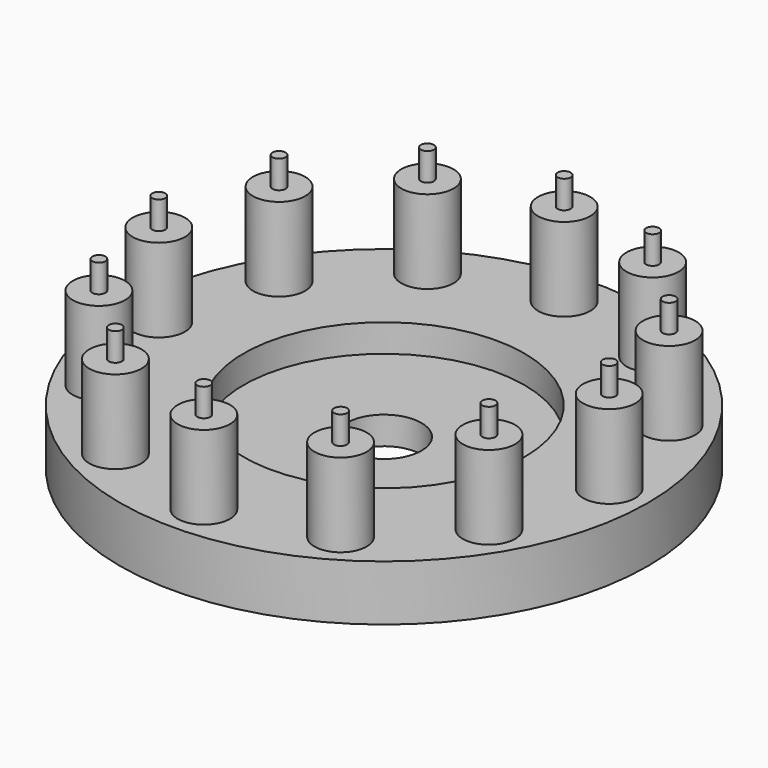
from build123d import *

# Parameters (mm, degrees)
DRIVERDISKBASESKETCH_R   = 47.5
DRIVERDISKBASESKETCH_R_2 = 6.75
CENTERPAD_DEPTH          = 5
SKETCH_R                 = 47.5
SKETCH_R_2               = 25.25
OUTSIDEPAD_DEPTH         = 10
OBJ1          = 1.175
OBJ2_DEPTH         = 30
ROLLERSKETCH_R           = 4.7
ROLLERPAD_DEPTH          = 25
PINSKETCHFEMALESKETCH_R  = 1.425
PINJOINERPOCKET_DEPTH    = 15
PINPOLAR_COUNT           = 12


with BuildPart() as part:
    # DriverDiskBaseSketch → centerPad (new body)
    with BuildSketch(Plane.XY):
        Circle(DRIVERDISKBASESKETCH_R)
        Circle(DRIVERDISKBASESKETCH_R_2, mode=Mode.SUBTRACT)
    extrude(amount=CENTERPAD_DEPTH)

    # Sketch → outsidePad (join)
    with BuildSketch(Plane.XY):
        Circle(SKETCH_R)
        Circle(SKETCH_R_2, mode=Mode.SUBTRACT)
    extrude(amount=OUTSIDEPAD_DEPTH)

    with BuildSketch(Plane.XY):
        with Locations((-40.5, 0)):
            Circle(OBJ1)
    obj2 = extrude(amount=OBJ2_DEPTH)

    # rollerSketch → RollerPad (join)
    with BuildSketch(Plane.XY):
        with Locations((-40.5, 0)):
            Circle(ROLLERSKETCH_R)
    rollerpad = extrude(amount=ROLLERPAD_DEPTH)

    # pinSketchFemaleSketch → pinJoinerPocket (cut)
    with BuildSketch(Plane.XY):
        with Locations((-40.5, 0)):
            Circle(PINSKETCHFEMALESKETCH_R)
    pinjoinerpocket = extrude(amount=PINJOINERPOCKET_DEPTH, mode=Mode.SUBTRACT)

    # pinPolar: obj2, RollerPad, pinJoinerPocket ×12 about axis
    pinpolar_axis = Axis((0, 0, 0), (0, 0, 1))
    for i in range(1, PINPOLAR_COUNT):
        add(obj2.rotate(pinpolar_axis, i * 360 / PINPOLAR_COUNT))
        add(rollerpad.rotate(pinpolar_axis, i * 360 / PINPOLAR_COUNT))
        add(pinjoinerpocket.rotate(pinpolar_axis, i * 360 / PINPOLAR_COUNT), mode=Mode.SUBTRACT)


solid = part.part
